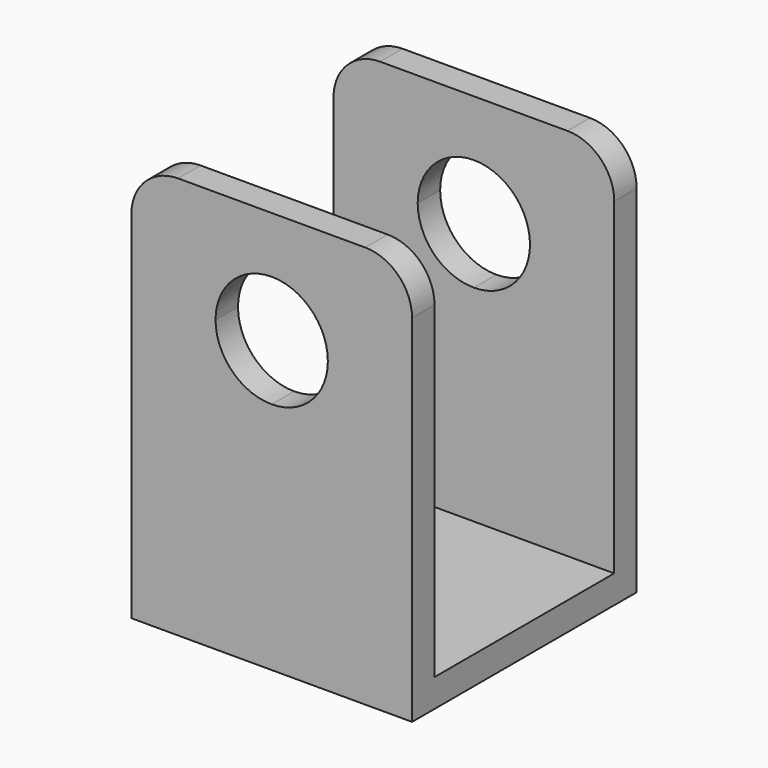
from build123d import *

# Parameters (mm, degrees)
F1_DEPTH = 30
F3_DEPTH = 30.001
F4_R     = 5
F5_R     = 4
F6_DEPTH = 43.001


with BuildPart() as f1:
    # F0 (on Right) → F1 (new body)
    with BuildSketch(Plane.YZ):
        Polygon((-12, 40), (-15, 40), (-15, -3), (15, -3), (15, 40), (12, 40), (12, 0), (-12, 0), align=None)
    extrude(amount=F1_DEPTH)

    # F2 (on face) → F3 (cut, through all)
    with BuildSketch(Plane(origin=(0, 15, 0), x_dir=(-1, 0, 0), z_dir=(0, 1, 0))):
        with BuildLine():
            ThreePointArc((-15, 22), (-10.757359, 23.757359), (-9, 28))
            ThreePointArc((-9, 28), (-10.757359, 32.242641), (-15, 34))
            Line((-15, 34), (-15, 22))
        make_face()
        with BuildLine():
            Line((-15, 22), (-15, 34))
            ThreePointArc((-15, 34), (-21, 28), (-15, 22))
        make_face()
    extrude(amount=-F3_DEPTH, mode=Mode.SUBTRACT)

    # F4
    f4_edges = [f1.edges().sort_by_distance(p)[0] for p in [
        (0, 13.5, 40),
        (0, -13.5, 40),
        (30, 13.5, 40),
        (30, -13.5, 40),
    ]]
    fillet(f4_edges, radius=F4_R)

    # F5 (on face) → F6 (cut, through all)
    with BuildSketch(Plane(origin=(0, 0, -3), x_dir=(1, 0, 0), z_dir=(0, 0, -1))):
        with Locations((15, 0)):
            Circle(F5_R)
    extrude(amount=-F6_DEPTH, mode=Mode.SUBTRACT)


solid = f1.part
